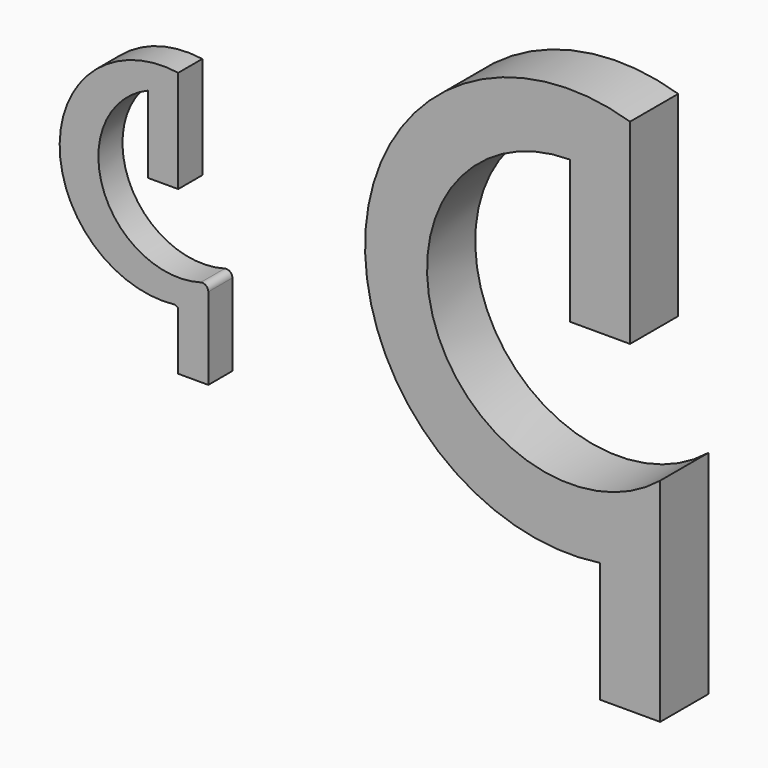
from build123d import *

# Parameters (mm, degrees)
F1_DEPTH = 5
F2_DEPTH = 5


with BuildPart() as f1:
    # F0 (on Front) → F1 (new body)
    with BuildSketch(Plane.XZ):
        with BuildLine():
            Line((-30.6054087508, 29.0378890929), (-30.6054087508, 46.0378890929))
            ThreePointArc((-30.6054087508, 46.0378890929), (-50.2864340073, 29.2876312352), (-31.1005821345, 11.9724072586))
            ThreePointArc((-31.1005821345, 11.9724072586), (-30.8527574954, 12.0033488197), (-30.6054087508, 12.0378890929))
            Line((-30.6054087508, 12.0378890929), (-30.6054087508, 11.6384769364))
            Line((-30.6054087508, 11.6384769364), (-30.6054087508, 2.0378890929))
            Line((-30.6054087508, 2.0378890929), (-25.6054087508, 2.0378890929))
            Line((-25.6054087508, 2.0378890929), (-25.6054087508, 15.6481668049))
            ThreePointArc((-25.6054087508, 15.6481668049), (-26.0015197853, 16.4452352569), (-26.8760449853, 16.6108484909))
            ThreePointArc((-26.8760449853, 16.6108484909), (-43.122496261, 25.1046217578), (-35.6054087508, 41.8254099786))
            Line((-35.6054087508, 41.8254099786), (-35.6054087508, 31.0378890929))
            Line((-35.6054087508, 31.0378890929), (-35.6054087508, 29.0378890929))
            Line((-35.6054087508, 29.0378890929), (-30.6054087508, 29.0378890929))
        make_face()
        with BuildLine():
            ThreePointArc((-30.6054087508, 12.0378890929), (-30.8527574954, 12.0033488197), (-31.1005821345, 11.9724072586))
            ThreePointArc((-31.1005821345, 11.9724072586), (-30.8541948144, 11.8036635919), (-30.6054087508, 11.6384769364))
            Line((-30.6054087508, 11.6384769364), (-30.6054087508, 12.0378890929))
        make_face()
    extrude(amount=F1_DEPTH)


with BuildPart() as f1b:
    # F0 (on Front) → F1, piece 2 (new body)
    with BuildSketch(Plane.XZ):
        with BuildLine():
            Line((48.4268052876, 34.1349840164), (48.4268052876, 66.631137635))
            ThreePointArc((48.4268052876, 66.631137635), (4.5235841521, 36.6984965751), (43.4268052876, 0.5046405748))
            Line((43.4268052876, 0.5046405748), (43.4268052876, 0))
            Line((43.4268052876, 0), (43.4268052876, -19.4953594252))
            Line((43.4268052876, -19.4953594252), (53.4268052876, -19.4953594252))
            Line((53.4268052876, -19.4953594252), (53.4268052876, 10.5046405748))
            Line((53.4268052876, 10.5046405748), (53.4268052876, 15.7757917067))
            ThreePointArc((53.4268052876, 15.7757917067), (16.0961529885, 26.1724523737), (38.4268052876, 57.8427874209))
            Line((38.4268052876, 57.8427874209), (38.4268052876, 34.1349840164))
            Line((38.4268052876, 34.1349840164), (48.4268052876, 34.1349840164))
        make_face()
    extrude(amount=F1_DEPTH)

    # F2 (add): a face of the model
    f2_faces = [f1b.faces().sort_by_distance(p)[0] for p in [
        (47.4228094165, -5, 50.3830608257),
    ]]
    extrude(f2_faces, amount=F2_DEPTH)


solid = Compound([f1.part, f1b.part])
